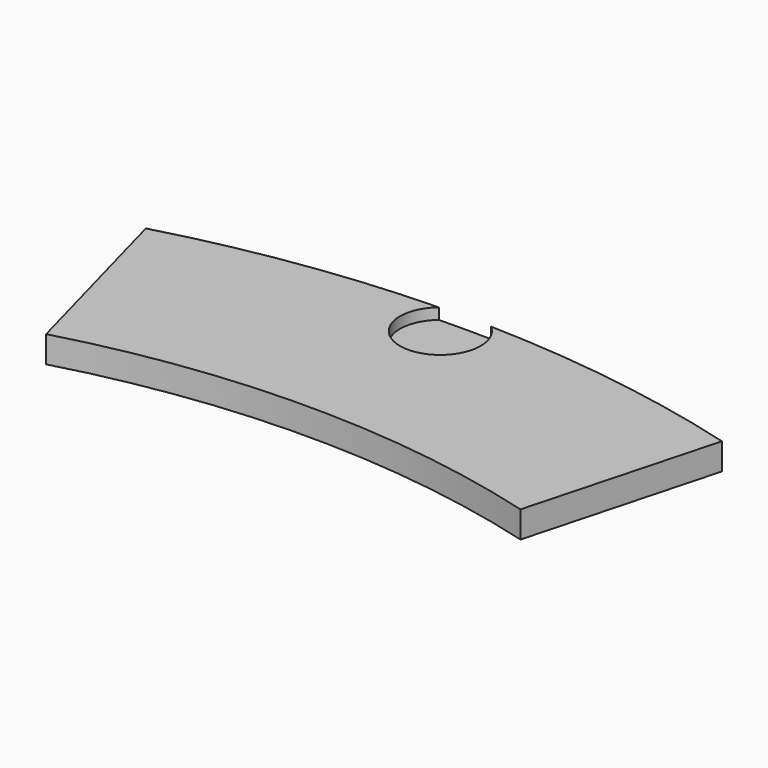
from build123d import *

# Parameters (mm, degrees)
F1_DEPTH = 1.905
F2_R     = 2.886824
F3_DEPTH = 0.79375


with BuildPart() as f1:
    # F0 (on Top) → F1 (new body)
    with BuildSketch(Plane.XY):
        with BuildLine():
            Line((16.993471, -8.666081), (20.6375, 4.820573))
            ThreePointArc((20.6375, 4.820573), (0, 7.62), (-20.6375, 4.820573))
            Line((-20.6375, 4.820573), (-16.993471, -8.666081))
            ThreePointArc((-16.993471, -8.666081), (0, -6.35), (16.993471, -8.666081))
        make_face()
    extrude(amount=F1_DEPTH)

    # F2 (on face) → F3 (cut)
    with BuildSketch(Plane.XY.offset(1.905)):
        with Locations((0, 5.397538)):
            Circle(F2_R)
    extrude(amount=-F3_DEPTH, mode=Mode.SUBTRACT)


solid = f1.part
